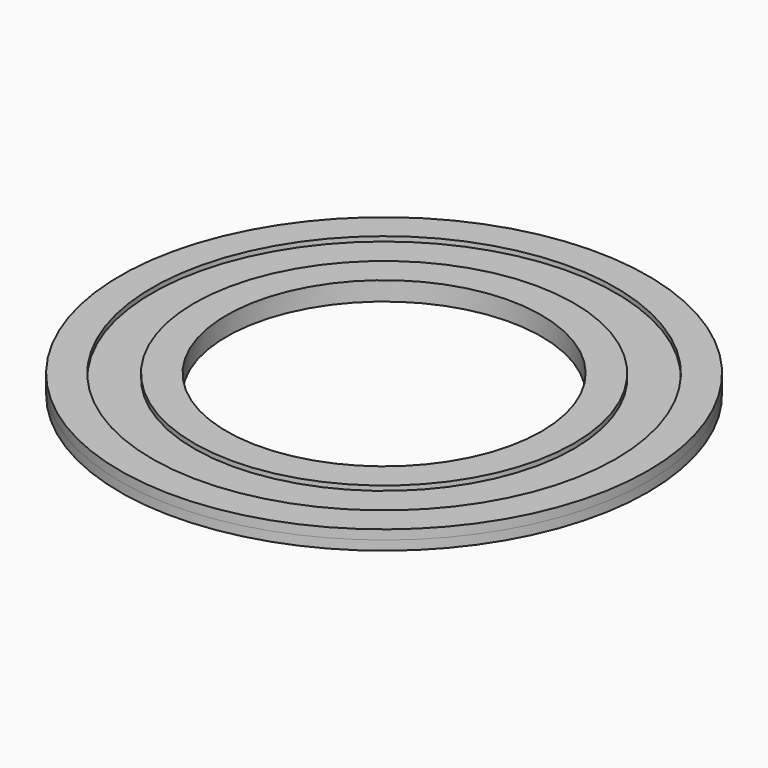
from build123d import *

# Parameters (mm, degrees)
F0_R     = 28.024806
F0_R_2   = 24.614857
F0_R_3   = 20.16083
F0_R_4   = 16.715086
F1_DEPTH = 1
F2_DEPTH = 0.5


with BuildPart() as f1:
    # F0 (on Top) → F1 (new body, symmetric)
    with BuildSketch(Plane.XY):
        Circle(F0_R)
        Circle(F0_R_2, mode=Mode.SUBTRACT)
        Circle(F0_R_3)
        Circle(F0_R_4, mode=Mode.SUBTRACT)
    extrude(amount=F1_DEPTH, both=True)


with BuildPart() as f2:
    # F0 (on Top) → F2 (new body, symmetric)
    with BuildSketch(Plane.XY):
        Circle(F0_R_2)
        Circle(F0_R_3, mode=Mode.SUBTRACT)
    extrude(amount=F2_DEPTH, both=True)


solid = Compound([f1.part, f2.part])
